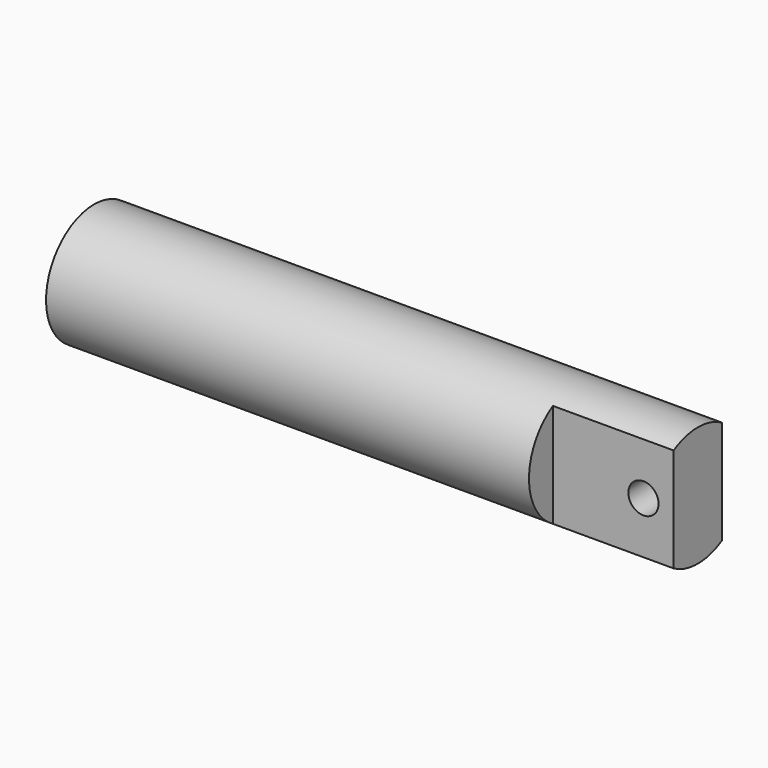
from build123d import *

# Parameters (mm, degrees)
F0_W     = 127
F0_H     = 12.6365
F2_W     = 33.421046
F2_H     = 53.807888
F2_W_2   = 45.786832
F2_H_2   = 75.531572
F3_DEPTH = 25.4
F4_R     = 3.175
F5_DEPTH = 25.4


with BuildPart() as f1:
    # F0 (on Front) → F1 (revolve)
    with BuildSketch(Plane.XZ):
        with Locations((-63.5, 6.31825)):
            Rectangle(F0_W, F0_H)
    revolve(axis=Axis((-63.5, 0, 0), (-1, 0, 0)))

    # F2 (on face) → F3 (cut)
    with BuildSketch(Plane.YZ):
        with Locations((-23.060523, -1.003882)):
            Rectangle(F2_W, F2_H)
        with Locations((29.243416, 5.847434)):
            Rectangle(F2_W_2, F2_H_2)
    extrude(amount=-F3_DEPTH, mode=Mode.SUBTRACT)

    # F4 (on face) → F5 (cut)
    with BuildSketch(Plane.XZ.offset(6.35)):
        with Locations((-6.35, 0)):
            Circle(F4_R)
    extrude(amount=-F5_DEPTH, mode=Mode.SUBTRACT)

    # F6 (on Front) → F7 (revolve, cut)
    with BuildSketch(Plane.XZ):
        with BuildLine():
            Line((-120.65, 0), (-146.05, 0))
            ThreePointArc((-146.05, 0), (-133.35, -12.7), (-120.65, 0))
        make_face()
    revolve(axis=Axis((-133.35, 0, 0), (-1, 0, 0)), mode=Mode.SUBTRACT)


solid = f1.part
